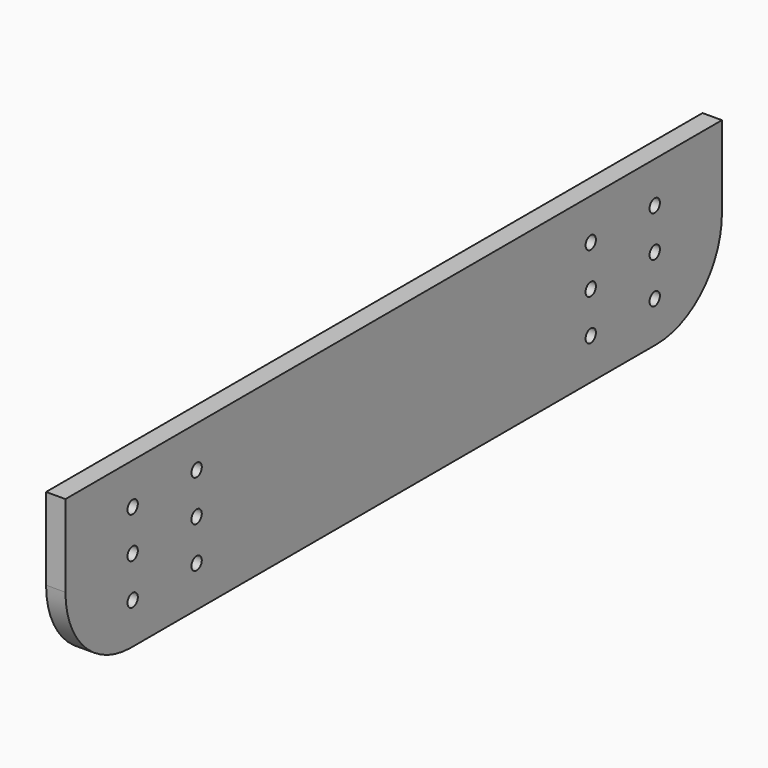
from build123d import *

# Parameters (mm, degrees)
F1_DEPTH = 12
F3_D     = 8


with BuildPart() as f1:
    # F0 (on Right) → F1 (new body)
    with BuildSketch(Plane.YZ):
        with BuildLine():
            Line((261.9316571355, 23.4717637405), (-246.0683428645, 23.4717637405))
            Line((-246.0683428645, 23.4717637405), (-246.0683428645, -27.3282362595))
            ThreePointArc((-246.0683428645, -27.3282362595), (-231.1893673488, -63.2492607438), (-195.2683428645, -78.1282362595))
            Line((-195.2683428645, -78.1282362595), (211.1316571355, -78.1282362595))
            ThreePointArc((211.1316571355, -78.1282362595), (247.0526816198, -63.2492607438), (261.9316571355, -27.3282362595))
            Line((261.9316571355, -27.3282362595), (261.9316571355, 23.4717637405))
        make_face()
    extrude(amount=F1_DEPTH)

    # F3 (through all)
    with Locations(Plane.YZ.offset(12)):
        with Locations((-194.0683428645, -1.9282362595), (-194.0683428645, -27.3282362595), (-194.0683428645, -52.7282362595), (-144.5683428645, -52.7282362595), (-144.5683428645, -27.3282362595), (-144.5683428645, -1.9282362595), (160.4316571355, -1.9282362595), (160.4316571355, -27.3282362595), (160.4316571355, -52.7282362595), (209.9316571355, -52.7282362595), (209.9316571355, -27.3282362595), (209.9316571355, -1.9282362595)):
            Hole(F3_D / 2)


solid = f1.part
